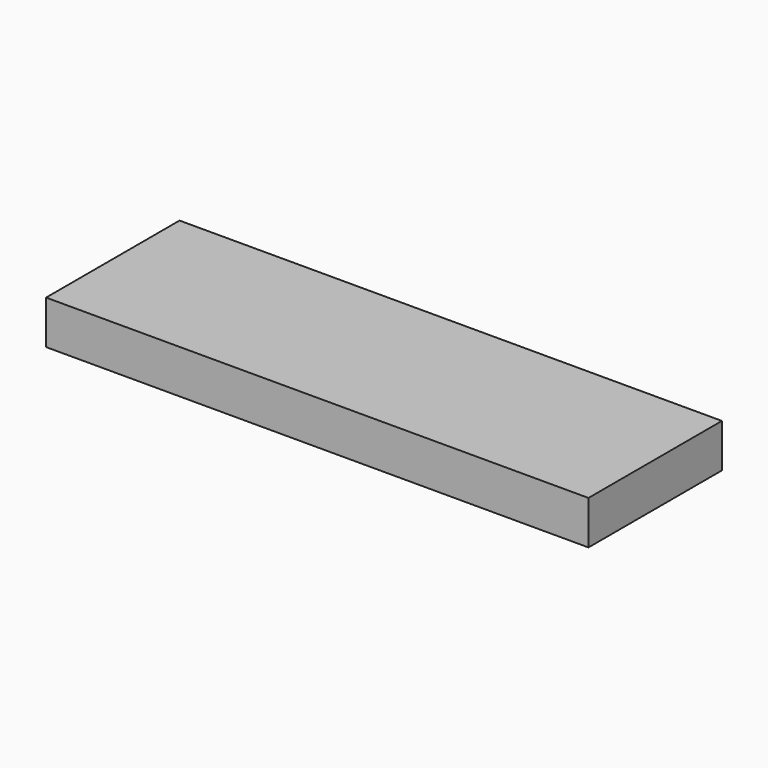
from build123d import *

# Parameters (mm, degrees)
F1_DEPTH = 5
F0_W     = 7.169912
F0_H     = 2.38125
F0_W_2   = 7.1700136
F3_W     = 62.203203
F3_H     = 19.1299592
F4_DEPTH = 5


with BuildPart() as f1:
    # F0 (on Top) → F1 (new body)
    with BuildSketch(Plane.XY):
        Polygon((19.1430148, -2.4350472), (31.1015888, -2.4350472), (31.1015888, 9.5249746), (14.3546068, 9.5249746), (14.3546068, 4.7624746), (26.3390888, 4.7624746), (26.3390888, 2.3536656), (14.3546068, 2.3536656), (14.3546068, -9.6049846), (31.1015888, -9.6049846), (31.1015888, -4.8162972), (19.1430148, -4.8162972), align=None)
    extrude(amount=-F1_DEPTH)


with BuildPart() as f1b:
    # F0 (on Top) → F1, piece 2 (new body)
    with BuildSketch(Plane.XY):
        Polygon((2.3942548, 4.7624746), (7.1829168, 4.7624746), (7.1829168, -9.6049846), (11.9733568, -9.6049846), (11.9733568, 9.5249746), (2.3942548, 9.5249746), align=None)
    extrude(amount=-F1_DEPTH)


with BuildPart() as f1c:
    # F0 (on Top) → F1, piece 3 (new body)
    with BuildSketch(Plane.XY):
        Polygon((-4.6072552, 4.8368966), (0.0130048, 4.8465486), (-0.0159512, 9.4546166), align=None)
    extrude(amount=-F1_DEPTH)


with BuildPart() as f1d:
    # F0 (on Top) → F1, piece 4 (new body)
    with BuildSketch(Plane.XY):
        Polygon((-7.1569072, 9.5249746), (-11.9455692, 9.5249746), (-11.9455692, -9.6049846), (4.8016668, -9.6049846), (4.8016668, 2.3536656), (-7.1569072, 2.3536656), align=None)
        with Locations((-3.5719512, -3.6256722)):
            Rectangle(F0_W, F0_H, mode=Mode.SUBTRACT)
    extrude(amount=-F1_DEPTH)


with BuildPart() as f1e:
    # F0 (on Top) → F1, piece 5 (new body)
    with BuildSketch(Plane.XY):
        Polygon((-14.3529812, 9.5249746), (-30.956105963, 9.5249746), (-30.9638192, 9.2107766), (-30.9900066, 8.0284066), (-31.014797, 6.8473066), (-31.034101, 6.0055506), (-31.0464708, 5.4444646), (-31.0533796, 5.1096926), (-31.0575198, 4.9402746), (-31.0588914, 4.8808386), (-31.0588914, 4.8727106), (-19.1774572, 4.7693326), (-19.1429132, 2.3536656), (-31.1016142, 2.3536656), (-31.1016142, -9.6049846), (-14.3529812, -9.6049846), align=None)
        with Locations((-22.72792, -3.6256722)):
            Rectangle(F0_W_2, F0_H, mode=Mode.SUBTRACT)
    extrude(amount=-F1_DEPTH)


with BuildPart() as f4:
    # F3 (on offset) → F4 (new body)
    with BuildSketch(Plane(origin=(0, 0, -5), x_dir=(1, 0, 0), z_dir=(0, 0, -1))):
        with Locations((-1.27e-05, 0.040005)):
            Rectangle(F3_W, F3_H)
    extrude(amount=-F4_DEPTH)


solid = Compound([f1.part, f1b.part, f1c.part, f1d.part, f1e.part, f4.part])
